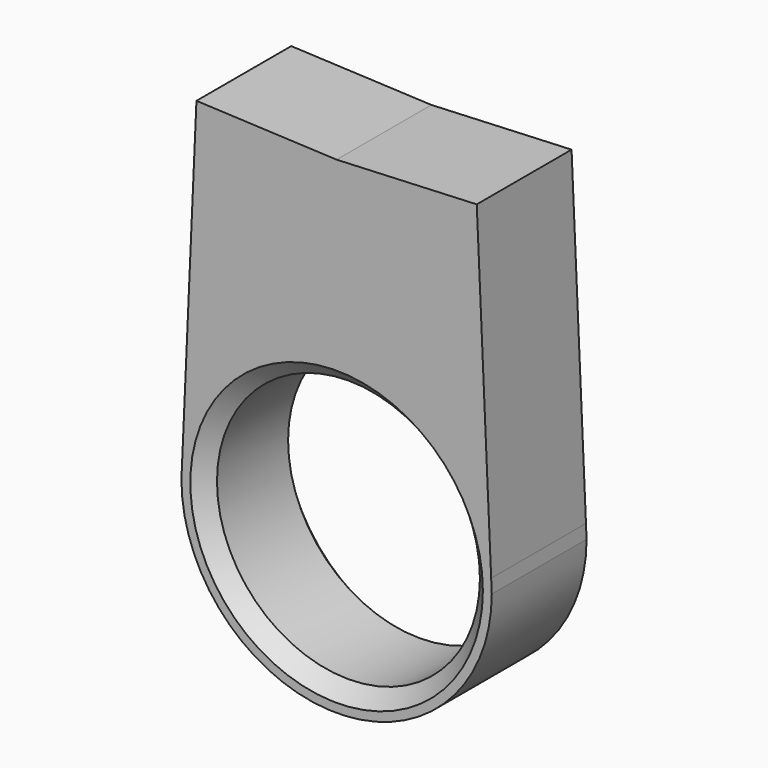
from build123d import *

# Parameters (mm, degrees)
F0_R     = 8.875
F1_DEPTH = 8
F2_SIZE  = 1


with BuildPart() as f1:
    # F0 (on Front) → F1 (new body)
    with BuildSketch(Plane.XZ):
        with BuildLine():
            ThreePointArc((0, 10.475), (7.071068, 7.728236), (10.433771, 0.928461))
            Line((10.433771, 0.928461), (9.461263, 22.829172))
            Line((9.461263, 22.829172), (0, 22.409042))
            Line((0, 22.409042), (0.528892, 22.385556))
            Line((0.528892, 22.385556), (0, 10.475))
        make_face()
        Polygon((-0.528892, 22.385556), (0, 10.475), (0.528892, 22.385556), (0, 22.409042), align=None)
        with BuildLine():
            Line((-10.433771, 0.928461), (-10.475, 0))
            ThreePointArc((-10.475, 0), (0, -10.475), (10.475, 0))
            Line((10.475, 0), (10.433771, 0.928461))
            ThreePointArc((10.433771, 0.928461), (7.071068, 7.728236), (0, 10.475))
            ThreePointArc((0, 10.475), (-7.071068, 7.728236), (-10.433771, 0.928461))
        make_face()
        Circle(F0_R, mode=Mode.SUBTRACT)
        with BuildLine():
            Line((-9.461263, 22.829172), (-10.433771, 0.928461))
            ThreePointArc((-10.433771, 0.928461), (-7.071068, 7.728236), (0, 10.475))
            Line((0, 10.475), (-0.528892, 22.385556))
            Line((-0.528892, 22.385556), (0, 22.409042))
            Line((0, 22.409042), (-9.461263, 22.829172))
        make_face()
    extrude(amount=F1_DEPTH)

    # F2
    f2_edges = [f1.edges().sort_by_distance(p)[0] for p in [
        (-8.875, 0, 0),
        (-8.875, -8, 0),
    ]]
    chamfer(f2_edges, length=F2_SIZE)


solid = f1.part
